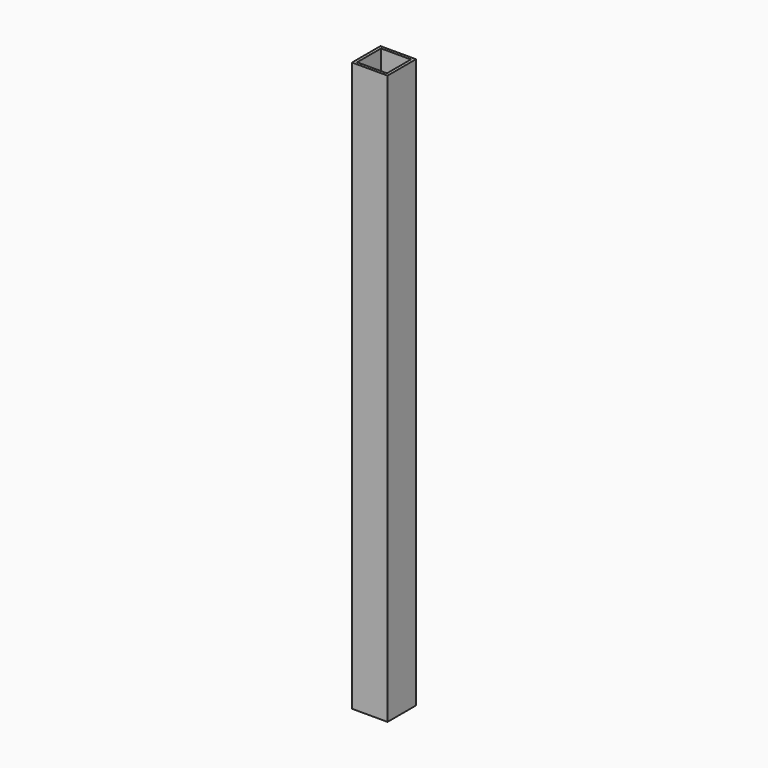
from build123d import *

# Parameters (mm, degrees)
SKETCH_W   = 25
SKETCH_H   = 25
SKETCH_W_2 = 21
SKETCH_H_2 = 21
PAD_DEPTH  = 400


with BuildPart() as part:
    # Sketch → Pad (new body)
    with BuildSketch(Plane.XY):
        with Locations((-12.5, 12.5)):
            Rectangle(SKETCH_W, SKETCH_H)
        with Locations((-12.5, 12.5)):
            Rectangle(SKETCH_W_2, SKETCH_H_2, mode=Mode.SUBTRACT)
    extrude(amount=PAD_DEPTH)


solid = part.part
